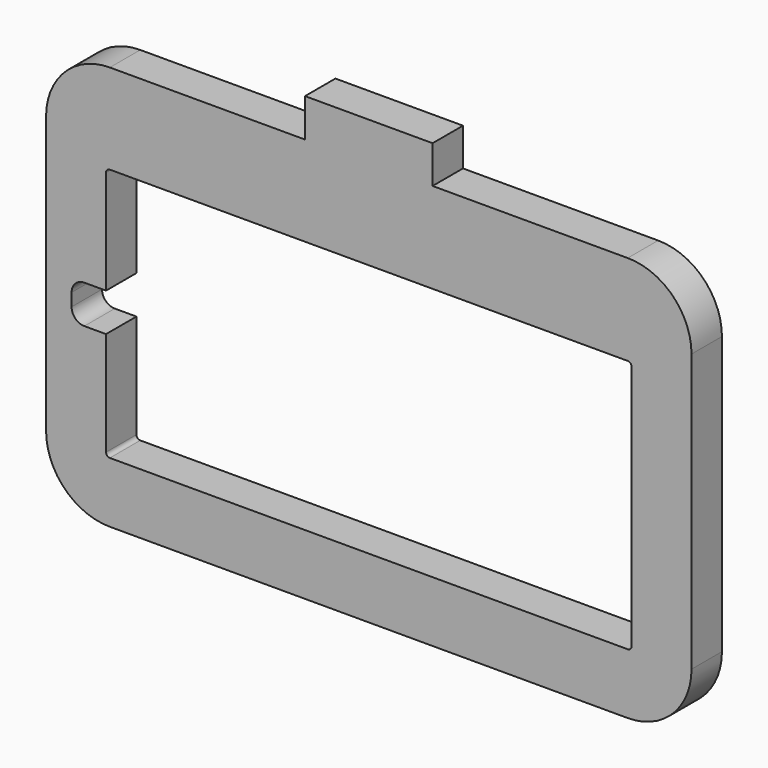
from build123d import *

# Parameters (mm, degrees)
F0_W     = 8.4663171785
F0_H     = 4.75
F1_DEPTH = 2.98


with BuildPart() as f1:
    # F0 (on Front) → F1 (new body)
    with BuildSketch(Plane.XZ):
        with Locations((14.7712850711, -37.7893784919)):
            Rectangle(F0_W, F0_H)
        with BuildLine():
            Line((19.7712850711, -8.4143784919), (19.7712850711, -5.4643784919))
            Line((19.7712850711, -5.4643784919), (9.7712850711, -5.4643784919))
            Line((9.7712850711, -5.4643784919), (9.7712850711, -8.4643784919))
            Line((9.7712850711, -8.4643784919), (-5.5287149289, -8.4643784919))
            ThreePointArc((-5.5287149289, -8.4643784919), (-9.0642488348, -9.9288445859), (-10.5287149289, -13.4643784919))
            Line((-10.5287149289, -13.4643784919), (-10.5287149289, -15.8643784919))
            Line((-10.5287149289, -15.8643784919), (-10.5287149289, -35.1643784919))
            ThreePointArc((-10.5287149289, -35.1643784919), (-9.0642488348, -38.6999123978), (-5.5287149289, -40.1643784919))
            Line((-5.5287149289, -40.1643784919), (10.5381264819, -40.1643784919))
            Line((10.5381264819, -40.1643784919), (10.5381264819, -35.4143784919))
            Line((10.5381264819, -35.4143784919), (-5.5287149289, -35.4143784919))
            ThreePointArc((-5.5287149289, -35.4143784919), (-5.7408469632, -35.3265105262), (-5.8287149289, -35.1143784919))
            Line((-5.8287149289, -35.1143784919), (-5.8287149289, -26.9643784919))
            Line((-5.8287149289, -26.9643784919), (-7.5287149289, -26.9643784919))
            ThreePointArc((-7.5287149289, -26.9643784919), (-8.2358217101, -26.6714852731), (-8.5287149289, -25.9643784919))
            Line((-8.5287149289, -25.9643784919), (-8.5287149289, -24.9643784919))
            ThreePointArc((-8.5287149289, -24.9643784919), (-8.2358217101, -24.2572717107), (-7.5287149289, -23.9643784919))
            Line((-7.5287149289, -23.9643784919), (-5.8287149289, -23.9643784919))
            Line((-5.8287149289, -23.9643784919), (-5.8287149289, -15.8143784919))
            ThreePointArc((-5.8287149289, -15.8143784919), (-5.7408469632, -15.6022464575), (-5.5287149289, -15.5143784919))
            Line((-5.5287149289, -15.5143784919), (35.0712850711, -15.5143784919))
            ThreePointArc((35.0712850711, -15.5143784919), (35.2834171055, -15.6022464575), (35.3712850711, -15.8143784919))
            Line((35.3712850711, -15.8143784919), (35.3712850711, -35.1143784919))
            ThreePointArc((35.3712850711, -35.1143784919), (35.2834171055, -35.3265105262), (35.0712850711, -35.4143784919))
            Line((35.0712850711, -35.4143784919), (19.0044436604, -35.4143784919))
            Line((19.0044436604, -35.4143784919), (19.0044436604, -40.1643784919))
            Line((19.0044436604, -40.1643784919), (35.0712850711, -40.1643784919))
            ThreePointArc((35.0712850711, -40.1643784919), (38.6068189771, -38.6999123978), (40.0712850711, -35.1643784919))
            Line((40.0712850711, -35.1643784919), (40.0712850711, -13.4143784919))
            ThreePointArc((40.0712850711, -13.4143784919), (38.6068189771, -9.8788445859), (35.0712850711, -8.4143784919))
            Line((35.0712850711, -8.4143784919), (19.7712850711, -8.4143784919))
        make_face()
    extrude(amount=F1_DEPTH)


solid = f1.part
